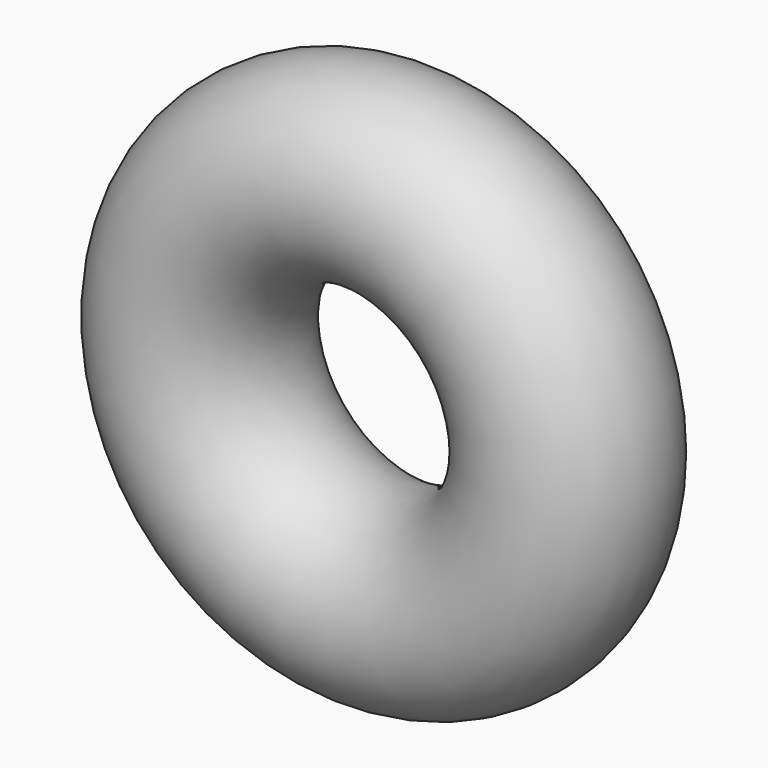
from build123d import *

# Parameters (mm, degrees)
F0_R = 23.72769


with BuildPart() as f2:
    # F2: sweep along a path in F1
    with BuildLine(Plane.XZ) as f2_path:
        CenterArc((47.249276, 0), 47.378603, 0, 360)
    # F0 (on Top) → F2 (sweep)
    with BuildSketch(Plane.XY):
        Circle(F0_R)
    sweep(path=f2_path.line)


solid = f2.part
